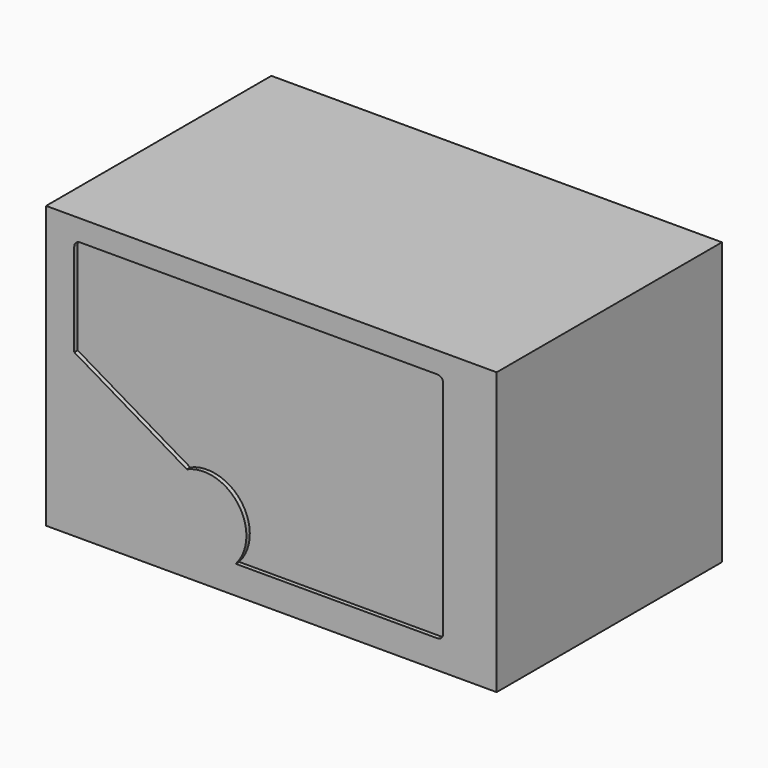
from build123d import *

# Parameters (mm, degrees)
F0_W     = 160
F0_H     = 100
F1_DEPTH = 100
F3_DEPTH = 50
F4_T     = -2.5
F5_W     = 155
F5_H     = 95
F6_DEPTH = 67.5
F8_W     = 150
F8_H     = 90
F9_DEPTH = 1
F10_R    = 2


with BuildPart() as f1:
    # F0 (on Front) → F1 (new body)
    with BuildSketch(Plane.XZ):
        with Locations((80, 50)):
            Rectangle(F0_W, F0_H)
    extrude(amount=F1_DEPTH)

    # F2 (on face) → F3 (cut)
    with BuildSketch(Plane.XZ.offset(100)):
        with BuildLine():
            Line((141, 10), (141, 50))
            Line((141, 50), (141, 92.5))
            Line((141, 92.5), (10, 92.5))
            Line((10, 92.5), (10, 57.5))
            Line((10, 57.5), (50, 33.9))
            ThreePointArc((50, 33.9), (68.2476049495, 28.8997849974), (67.3670576668, 10))
            Line((67.3670576668, 10), (80, 10))
            Line((80, 10), (141, 10))
        make_face()
    extrude(amount=-F3_DEPTH, mode=Mode.SUBTRACT)

    # F4
    f4_openings = [f1.faces().sort_by_distance(p)[0] for p in [
        (10, -75, 75),
        (30, -75, 45.7),
        (68.247605, -75, 28.899785),
        (104.183529, -75, 10),
        (141, -75, 51.25),
        (83.977871, -50, 56.442025),
        (75.5, -75, 92.5),
    ]]
    offset(amount=F4_T, openings=f4_openings)

    # F5 (on face) → F6 (join)
    with BuildSketch(Plane.XZ.offset(2.5)):
        with Locations((80, 50)):
            Rectangle(F5_W, F5_H)
    extrude(amount=F6_DEPTH)

    # F8 (on offset) → F9 (join)
    with BuildSketch(Plane.XZ.offset(97.5)):
        with Locations((80, 50)):
            Rectangle(F8_W, F8_H)
    extrude(amount=F9_DEPTH)

    # F10
    f10_edges = [f1.edges().sort_by_distance(p)[0] for p in [
        (10, -99.25, 92.5),
        (141, -99.25, 92.5),
        (141, -99.25, 10),
    ]]
    fillet(f10_edges, radius=F10_R)


solid = f1.part
